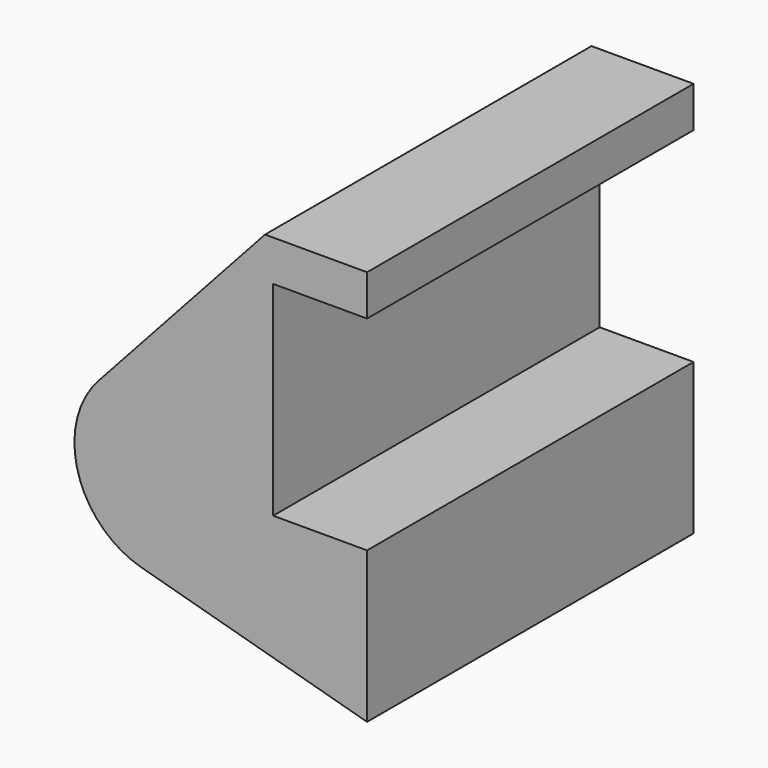
from build123d import *

# Parameters (mm, degrees)
F0_R     = 3.175
F1_DEPTH = 25.4


with BuildPart() as f1:
    # F0 (on Front) → F1 (new body)
    with BuildSketch(Plane.XZ):
        with BuildLine():
            Line((-0.9398, 0), (0, 0))
            Line((0, 0), (0, 12.7))
            Line((0, 12.7), (5.842, 12.7))
            Line((5.842, 12.7), (5.842, 15.24))
            Line((5.842, 15.24), (-0.508, 15.24))
            Line((-0.508, 15.24), (-10.88063, 3.847543))
            ThreePointArc((-10.88063, 3.847543), (-4.591961, 5.329721), (-0.9398, 0))
        make_face()
        with BuildLine():
            ThreePointArc((-8.182663, -5.506983), (-3.195791, -4.549339), (-0.9398, 0))
            ThreePointArc((-0.9398, 0), (-4.591961, 5.329721), (-10.88063, 3.847543))
            ThreePointArc((-10.88063, 3.847543), (-12.145978, -1.583727), (-8.182663, -5.506983))
        make_face()
        with Locations((-6.6548, 0)):
            Circle(F0_R, mode=Mode.SUBTRACT)
        with Locations((-6.6548, 0)):
            Circle(F0_R)
        with BuildLine():
            Line((5.842, 0), (0, 0))
            Line((0, 0), (-0.9398, 0))
            ThreePointArc((-0.9398, 0), (-3.195791, -4.549339), (-8.182663, -5.506983))
            Line((-8.182663, -5.506983), (5.842, -9.398))
            Line((5.842, -9.398), (5.842, 0))
        make_face()
    extrude(amount=F1_DEPTH)


solid = f1.part
